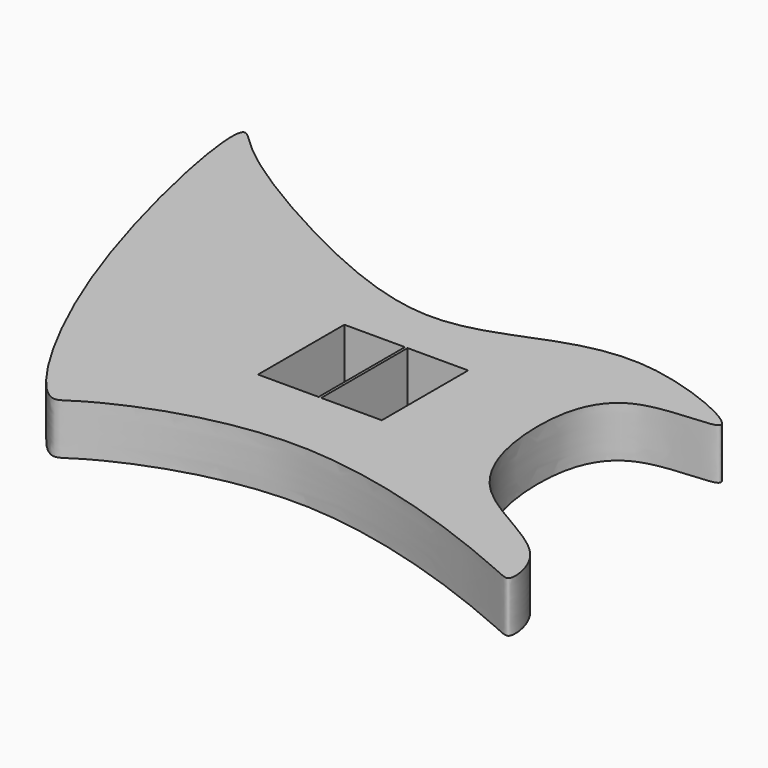
from build123d import *

# Parameters (mm, degrees)
F0_W     = 47.7792173624
F0_H     = 85.1177163422
F1_DEPTH = 40


with BuildPart() as f1:
    # F0 (on Top) → F1 (new body)
    with BuildSketch(Plane.XY):
        with BuildLine():
            add(Edge.make_bspline(
                [(-177.883900826, 206.801395391), (-185.5999527311, 197.511428085), (-142.8679832324, -9.525175061), (-54.0260700903, -154.1031435267), (-31.7880718523, -132.3874596077), (113.5665445075, -64.279523449), (307.0621261772, -150.5416862748), (325.487952857, -158.6735205371), (318.9337053057, -109.4001118318), (225.4557494557, -80.5504984926), (202.2925759179, 11.3254624188), (220.3713192839, 88.3932273456), (336.7422379711, 75.3423308205), (204.2224076437, 135.0440705691), (127.5570134225, 100.9321194093), (58.9053016294, 77.3741951609), (-49.4551641951, 120.8807924604), (-156.5055393469, 185.2227410141), (-175.4720257881, 209.7052431779), (-177.883900826, 206.801395391)],
                knots=[0, 0, 0, 0, 0.0936487482, 0.1759525396, 0.2014355567, 0.2812201068, 0.373511165, 0.3929036281, 0.429803127, 0.4911131941, 0.5516648277, 0.6043608503, 0.6540190907, 0.7139556636, 0.7753090492, 0.8274448939, 0.8969555295, 0.9707273771, 1, 1, 1, 1], degree=3))
        make_face()
        with Locations((55.4050119456, 3.0702333897)):
            Rectangle(F0_W, F0_H, mode=Mode.SUBTRACT)
        with Locations((105.2458360791, 3.0702333897)):
            Rectangle(F0_W, F0_H, mode=Mode.SUBTRACT)
    extrude(amount=F1_DEPTH)


solid = f1.part
